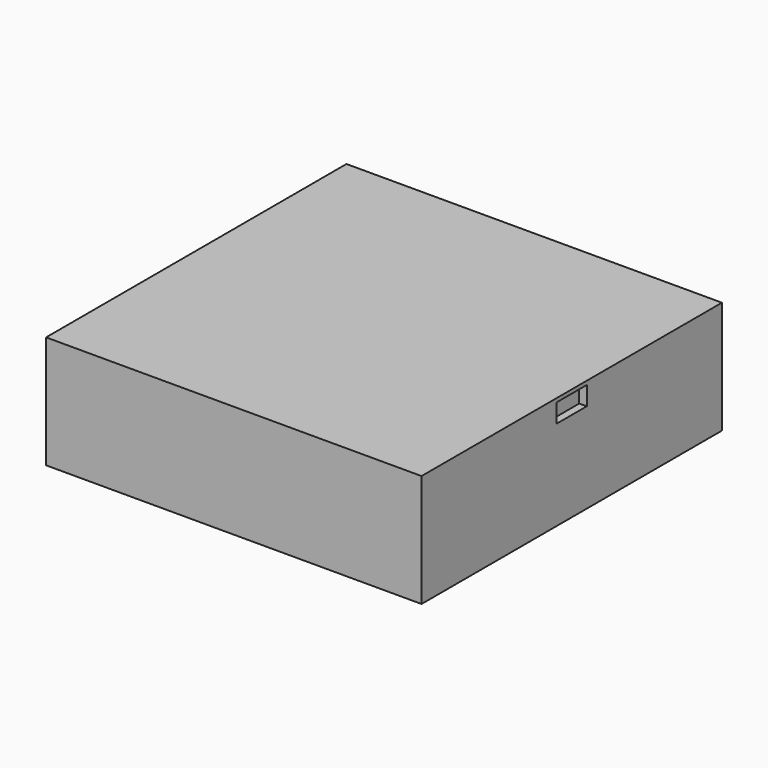
from build123d import *

# Parameters (mm, degrees)
F0_W     = 10000
F0_H     = 10000
F1_DEPTH = 3000
F2_W     = 1000
F2_H     = 2000
F3_DEPTH = 200
F4_W     = 1000
F4_H     = 500
F5_DEPTH = 200


with BuildPart() as f1:
    # F0 (on Top) → F1 (new body)
    with BuildSketch(Plane.XY):
        with Locations((4999.994307, 4999.998281)):
            Rectangle(F0_W, F0_H)
    extrude(amount=F1_DEPTH)

    # F2 (on face) → F3 (cut)
    with BuildSketch(Plane(origin=(-0.005693, 0, 0), x_dir=(0, -1, 0), z_dir=(-1, 0, 0))):
        with Locations((-8999.998281, 1000)):
            Rectangle(F2_W, F2_H)
        with Locations((-6999.998281, 1000)):
            Rectangle(F2_W, F2_H)
        with Locations((-4999.998281, 1000)):
            Rectangle(F2_W, F2_H)
        with Locations((-2999.998281, 1000)):
            Rectangle(F2_W, F2_H)
        with Locations((-999.998281, 1000)):
            Rectangle(F2_W, F2_H)
    extrude(amount=-F3_DEPTH, mode=Mode.SUBTRACT)

    # F4 (on face) → F5 (cut)
    with BuildSketch(Plane.YZ.offset(9999.994307)):
        with Locations((4999.998281, 2650)):
            Rectangle(F4_W, F4_H)
    extrude(amount=-F5_DEPTH, mode=Mode.SUBTRACT)


solid = f1.part
